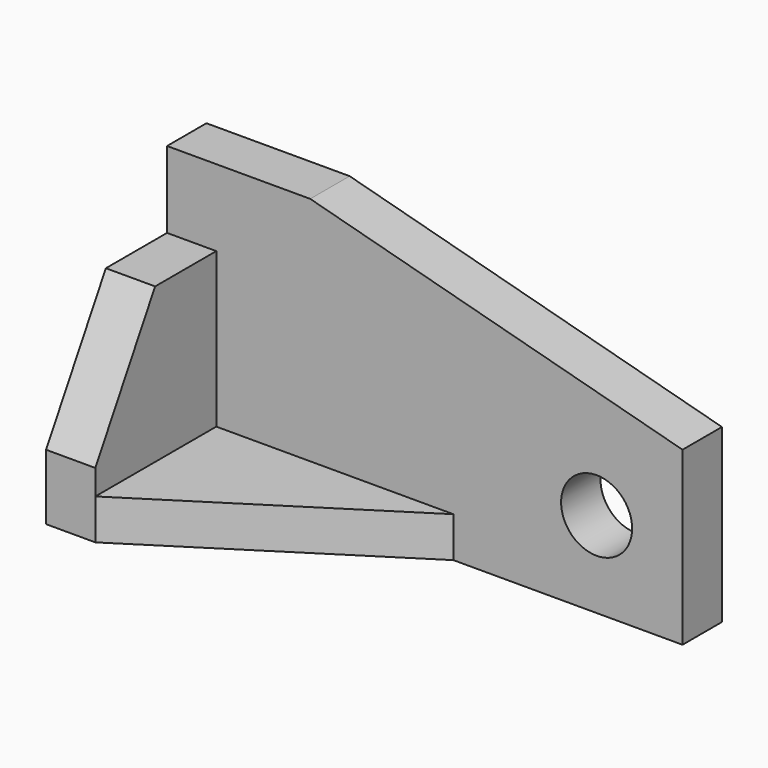
from build123d import *

# Parameters (mm, degrees)
F0_R     = 7.874
F1_DEPTH = 10.922
F2_DEPTH = 44.45
F4_DEPTH = 10.922
F5_SIZE2 = 16.5711074263
F5_SIZE  = 28.702


with BuildPart() as f1:
    # F0 (on Front) → F1 (new body)
    with BuildSketch(Plane.XZ):
        Polygon((-18.1123920134, 44.1450476348), (-49.8623920134, 44.1450476348), (-49.8623920134, 27.1766074002), (-38.9403920134, 27.1766074002), (-38.9403920134, -7.0854779333), (13.6376079866, -7.0854779333), (13.6376079866, -16.0529523652), (64.4376079866, -16.0529523652), (64.4376079866, 22.0258417996), align=None)
        with Locations((45.3876079866, 2.9970476348)):
            Circle(F0_R, mode=Mode.SUBTRACT)
        Polygon((-38.9403920134, 27.1766074002), (-49.8623920134, 27.1766074002), (-49.8623920134, -16.0529523652), (13.6376079866, -16.0529523652), (13.6376079866, -7.0854779333), (-38.9403920134, -7.0854779333), align=None)
    extrude(amount=F1_DEPTH)

    # F0 (on Front) → F2 (join)
    with BuildSketch(Plane.XZ):
        Polygon((-38.9403920134, 27.1766074002), (-49.8623920134, 27.1766074002), (-49.8623920134, -16.0529523652), (13.6376079866, -16.0529523652), (13.6376079866, -7.0854779333), (-38.9403920134, -7.0854779333), align=None)
    extrude(amount=F2_DEPTH)

    # F3 (on face) → F4 (cut)
    with BuildSketch(Plane.XY.offset(-7.0854779333)):
        Polygon((13.6376079866, -10.922), (-38.9403920134, -44.45), (13.6376079866, -44.45), align=None)
    extrude(amount=-F4_DEPTH, mode=Mode.SUBTRACT)

    # F5
    f5_edges = [f1.edges().sort_by_distance(p)[0] for p in [
        (-44.401392, -44.45, 27.176607),
    ]]
    f5_side = f1.faces().sort_by_distance((-44.401392, -44.45, 5.561828))[0]
    chamfer(f5_edges, length=F5_SIZE, length2=F5_SIZE2, reference=f5_side)


solid = f1.part
